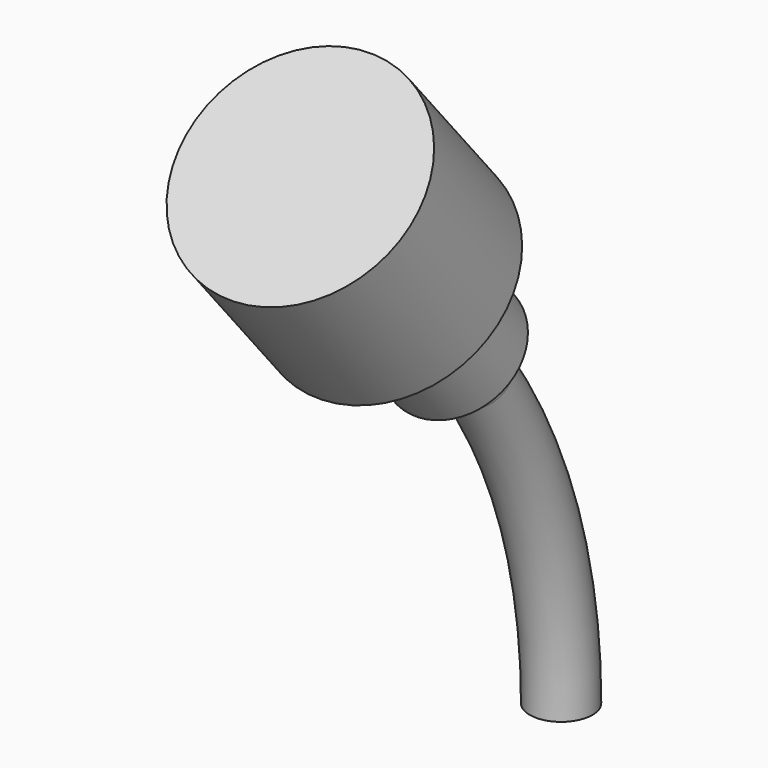
from build123d import *

# Parameters (mm, degrees)
CONE007_ROLL_ANGLE           = -35.5
BOX001027045030_W            = 10
BOX001027045030_H            = 24
BOX001027045030_DEPTH        = 22
BOX001027045030_ROLL_ANGLE   = -35.5
BOX001027045029_W            = 10
BOX001027045029_H            = 24
BOX001027045029_DEPTH        = 22
TORUS006_R                   = 1.1
TORUS006_PITCH_ANGLE         = 90
CYLINDER135_R                = 4
CYLINDER135_DEPTH            = 6
CYLINDER135_ROLL_ANGLE       = -40
CYLINDER134_R                = 2.2
CYLINDER134_DEPTH            = 10
CYLINDER134_ROLL_ANGLE       = -40
FUSION112046_PLACEMENT_ANGLE = 180


with BuildPart() as cone007:
    # Cone007 → Cone007 (revolve)
    with BuildSketch(Plane.XZ):
        Polygon((0, 0), (1.1, 0), (1.3, 2), (0, 2), align=None)
    revolve(axis=Axis((0, 0, 0), (0, 0, 1)))


with BuildPart() as cone007_1:
    # Cone007 roll: moved
    add(cone007.part.rotate(Axis((0, 0, 0), (1, 0, 0)), CONE007_ROLL_ANGLE))


with BuildPart() as cone007_2:
    # Cone007 placement: moved
    add(cone007_1.part.moved(Location((0, 3.71769, 11.614059))))


with BuildPart() as cube083:
    # Box001027045030 → Box001027045030 (new body)
    with BuildSketch(Plane.XY):
        with Locations((5, 12)):
            Rectangle(BOX001027045030_W, BOX001027045030_H)
    extrude(amount=BOX001027045030_DEPTH)


with BuildPart() as cube083_1:
    # Box001027045030 roll: moved
    add(cube083.part.rotate(Axis((0, 0, 0), (1, 0, 0)), BOX001027045030_ROLL_ANGLE))


with BuildPart() as cube083_2:
    # Box001027045030 placement: moved
    add(cube083_1.part.moved(Location((-5, 0.461228, 13.936871))))


with BuildPart() as cube082:
    # Box001027045029 → Box001027045029 (new body)
    with BuildSketch(Plane(origin=(-5, -4, 0), x_dir=(1, 0, 0), z_dir=(0, 0, 1))):
        with Locations((5, 12)):
            Rectangle(BOX001027045029_W, BOX001027045029_H)
    extrude(amount=BOX001027045029_DEPTH)


with BuildPart() as cut073:
    # Torus006 → Torus006 (revolve)
    with BuildSketch(Plane.XZ):
        with Locations((20, 0)):
            Circle(TORUS006_R)
    revolve(axis=Axis((0, 0, 0), (0, 0, 1)))


with BuildPart() as cut073_1:
    # Torus006 pitch: moved
    add(cut073.part.rotate(Axis((0, 0, 0), (0, 1, 0)), TORUS006_PITCH_ANGLE))


with BuildPart() as cut073_2:
    # Torus006 placement: moved
    add(cut073_1.part.moved(Location((0, 20, 0))))

    # Common058: intersect Cube082
    add(cube082.part, mode=Mode.INTERSECT)

    # Cut073: cut Cube083
    add(cube083_2.part, mode=Mode.SUBTRACT)


with BuildPart() as cylinder193:
    # Cylinder135 → Cylinder135 (new body)
    with BuildSketch(Plane.XY):
        Circle(CYLINDER135_R)
    extrude(amount=CYLINDER135_DEPTH)


with BuildPart() as cylinder193_1:
    # Cylinder135 roll: moved
    add(cylinder193.part.rotate(Axis((0, 0, 0), (1, 0, 0)), CYLINDER135_ROLL_ANGLE))


with BuildPart() as cylinder193_2:
    # Cylinder135 placement: moved
    add(cylinder193_1.part.moved(Location((0, 7.571655, 16.302952))))


with BuildPart() as obj1:
    # Cylinder134 → Cylinder134 (new body)
    with BuildSketch(Plane.XY):
        Circle(CYLINDER134_R)
    extrude(amount=CYLINDER134_DEPTH)


with BuildPart() as obj1_1:
    # Cylinder134 roll: moved
    add(obj1.part.rotate(Axis((0, 0, 0), (1, 0, 0)), CYLINDER134_ROLL_ANGLE))


with BuildPart() as obj1_2:
    # Cylinder134 placement: moved
    add(obj1_1.part.moved(Location((0, 4.679111, 12.855752))))

    # Fusion112046: union Cone007, Cut073, Cylinder193
    add(cone007_2.part)
    add(cut073_2.part)
    add(cylinder193_2.part)


with BuildPart() as obj1_3:
    # Fusion112046 placement: moved
    add(obj1_2.part.moved(Location((0, 0, 33))).rotate(Axis((0, 0, 33), (0, 0, 1)), FUSION112046_PLACEMENT_ANGLE))


solid = obj1_3.part
